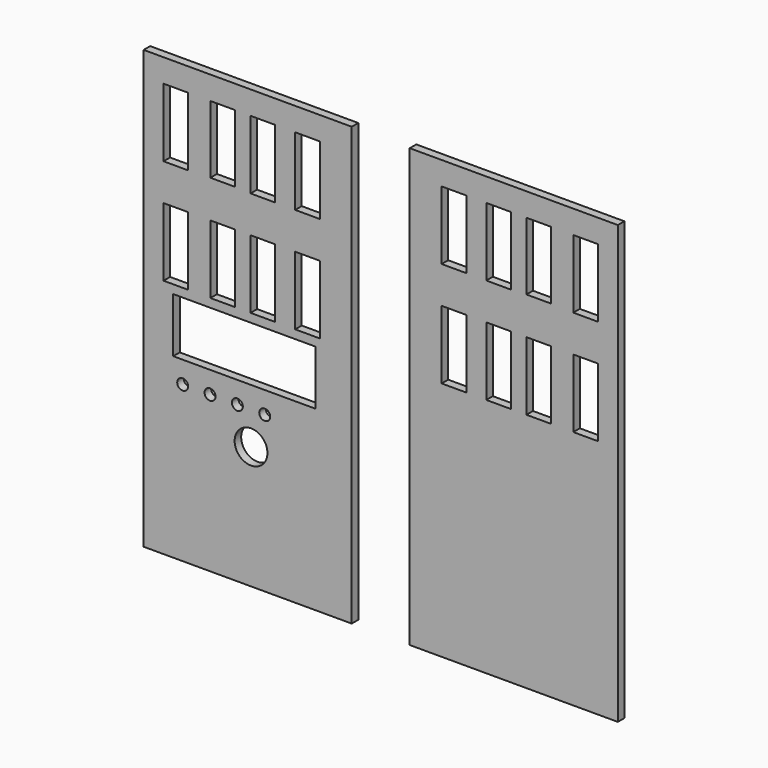
from build123d import *

# Parameters (mm, degrees)
F0_R     = 2
F0_R_2   = 6
F0_W     = 52
F0_H     = 20
F0_W_2   = 9
F0_H_2   = 25
F1_DEPTH = 3
F0_H_3   = 24.7242773399


with BuildPart() as f1:
    # F0 (on Front) → F1 (new body)
    with BuildSketch(Plane.XZ):
        with BuildLine():
            Line((-33.4349535406, -90.1943072677), (-33.4349535406, -116.7359932065))
            Line((-33.4349535406, -116.7359932065), (-20.3615333885, -116.7359932065))
            Line((-20.3615333885, -116.7359932065), (-20.3615333885, -88.7359932065))
            Line((-20.3615333885, -88.7359932065), (-15.253016612, -74.6326937222))
            ThreePointArc((-15.253016612, -74.6326937222), (-12.8761914321, -69.3241187044), (-10.7033118009, -74.7193815121))
            Line((-10.7033118009, -74.7193815121), (-5.3615333885, -88.7359932065))
            Line((-5.3615333885, -88.7359932065), (-5.3615333885, -116.7359932065))
            Line((-5.3615333885, -116.7359932065), (12.8664459437, -116.7359932065))
            Line((12.8664459437, -116.7359932065), (12.8664459437, -89.0134006739))
            Line((12.8664459437, -89.0134006739), (16.9397874707, -74.5770614979))
            ThreePointArc((16.9397874707, -74.5770614979), (19.4727024752, -69.5690042791), (22.1009911369, -74.5276728743))
            Line((22.1009911369, -74.5276728743), (27.8664459437, -89.0134006739))
            Line((27.8664459437, -89.0134006739), (27.8664459437, -116.7359932065))
            Line((27.8664459437, -116.7359932065), (42.6884633303, -116.7359932065))
            Line((42.6884633303, -116.7359932065), (42.6884633303, 43.2640067935))
            Line((42.6884633303, 43.2640067935), (-33.4349535406, 43.2640067935))
            Line((-33.4349535406, 43.2640067935), (-33.4349535406, 34.7555621043))
            Line((-33.4349535406, 34.7555621043), (-33.4349535406, -90.1943072677))
        make_face()
        with Locations((-19.1335540563, -59.8227716982)):
            Circle(F0_R, mode=Mode.SUBTRACT)
        with Locations((5.8664459437, -71.8227716982)):
            Circle(F0_R_2, mode=Mode.SUBTRACT)
        with BuildLine():
            ThreePointArc((-7.1335540563, -59.8227716982), (-9.1335540563, -61.8227716982), (-11.1335540563, -59.8227716982))
            ThreePointArc((-11.1335540563, -59.8227716982), (-9.1335540563, -57.8227716982), (-7.1335540563, -59.8227716982))
        make_face(mode=Mode.SUBTRACT)
        with Locations((0.8664459437, -59.8227716982)):
            Circle(F0_R, mode=Mode.SUBTRACT)
        with Locations((3.3922115564, -41.8520871103)):
            Rectangle(F0_W, F0_H, mode=Mode.SUBTRACT)
        with Locations((10.8664459437, -59.8227716982)):
            Circle(F0_R, mode=Mode.SUBTRACT)
        with Locations((-21.6335540563, -16.1997724324)):
            Rectangle(F0_W_2, F0_H_2, mode=Mode.SUBTRACT)
        Polygon((-9, -3.6997724324), (0, -3.6997724324), (0, -12.1065765657), (0, -28.6997724324), (-9, -28.6997724324), align=None, mode=Mode.SUBTRACT)
        with Locations((10.1928726844, -16.1997724324)):
            Rectangle(F0_W_2, F0_H_2, mode=Mode.SUBTRACT)
        with Locations((26.5141168684, -16.1997724324)):
            Rectangle(F0_W_2, F0_H_2, mode=Mode.SUBTRACT)
        with Locations((-21.6335540563, 22.2555621043)):
            Rectangle(F0_W_2, F0_H_2, mode=Mode.SUBTRACT)
        Polygon((-9, 10.0312847644), (-9, 34.7555621043), (0, 34.7555621043), (0, 22.3934234343), (0, 10.0312847644), align=None, mode=Mode.SUBTRACT)
        with Locations((10.1928726844, 22.2555621043)):
            Rectangle(F0_W_2, F0_H_2, mode=Mode.SUBTRACT)
        with Locations((26.5141168684, 22.2555621043)):
            Rectangle(F0_W_2, F0_H_2, mode=Mode.SUBTRACT)
        with BuildLine():
            Line((-20.3615333885, -88.7359932065), (-20.3615333885, -116.7359932065))
            Line((-20.3615333885, -116.7359932065), (-5.3615333885, -116.7359932065))
            Line((-5.3615333885, -116.7359932065), (-5.3615333885, -88.7359932065))
            Line((-5.3615333885, -88.7359932065), (-10.7033118009, -74.7193815121))
            ThreePointArc((-10.7033118009, -74.7193815121), (-12.8761914321, -69.3241187044), (-15.253016612, -74.6326937222))
            Line((-15.253016612, -74.6326937222), (-20.3615333885, -88.7359932065))
        make_face()
        with BuildLine():
            Line((12.8664459437, -89.0134006739), (12.8664459437, -116.7359932065))
            Line((12.8664459437, -116.7359932065), (26.4155082405, -116.7359932065))
            Line((26.4155082405, -116.7359932065), (27.8664459437, -116.7359932065))
            Line((27.8664459437, -116.7359932065), (27.8664459437, -89.0134006739))
            Line((27.8664459437, -89.0134006739), (22.1009911369, -74.5276728743))
            ThreePointArc((22.1009911369, -74.5276728743), (19.4727024752, -69.5690042791), (16.9397874707, -74.5770614979))
            Line((16.9397874707, -74.5770614979), (12.8664459437, -89.0134006739))
        make_face()
    extrude(amount=F1_DEPTH)


with BuildPart() as f1b:
    # F0 (on Front) → F1, piece 2 (new body)
    with BuildSketch(Plane.XZ):
        with BuildLine():
            Line((78.7419597656, -89.0134006739), (84.5074145724, -74.5276728743))
            ThreePointArc((84.5074145724, -74.5276728743), (87.1357032341, -69.5690042791), (89.6686182386, -74.5770614979))
            Line((89.6686182386, -74.5770614979), (93.7419597656, -89.0134006739))
            Line((93.7419597656, -89.0134006739), (93.7419597656, -116.7359932065))
            Line((93.7419597656, -116.7359932065), (111.9699390978, -116.7359932065))
            Line((111.9699390978, -116.7359932065), (111.9699390978, -88.7359932065))
            Line((111.9699390978, -88.7359932065), (117.3117175102, -74.7193815121))
            ThreePointArc((117.3117175102, -74.7193815121), (119.4845971414, -69.3241187044), (121.8614223213, -74.6326937222))
            Line((121.8614223213, -74.6326937222), (126.9699390978, -88.7359932065))
            Line((126.9699390978, -88.7359932065), (126.9699390978, -116.7359932065))
            Line((126.9699390978, -116.7359932065), (140.0433592498, -116.7359932065))
            Line((140.0433592498, -116.7359932065), (140.0433592498, -90.1943072677))
            Line((140.0433592498, -90.1943072677), (140.0433592498, 34.7555621043))
            Line((140.0433592498, 34.7555621043), (140.0433592498, 43.2640067935))
            Line((140.0433592498, 43.2640067935), (63.919942379, 43.2640067935))
            Line((63.919942379, 43.2640067935), (63.919942379, -116.7359932065))
            Line((63.919942379, -116.7359932065), (78.7419597656, -116.7359932065))
            Line((78.7419597656, -116.7359932065), (78.7419597656, -89.0134006739))
        make_face()
        with Locations((80.0942888409, -16.1997724324)):
            Rectangle(F0_W_2, F0_H_2, mode=Mode.SUBTRACT)
        with Locations((96.4155330248, -16.1997724324)):
            Rectangle(F0_W_2, F0_H_2, mode=Mode.SUBTRACT)
        with Locations((111.1084057093, -16.1997724324)):
            Rectangle(F0_W_2, F0_H_2, mode=Mode.SUBTRACT)
        with Locations((128.2419597656, -16.1997724324)):
            Rectangle(F0_W_2, F0_H_2, mode=Mode.SUBTRACT)
        with Locations((80.0942888409, 22.2555621043)):
            Rectangle(F0_W_2, F0_H_2, mode=Mode.SUBTRACT)
        with Locations((96.4155330248, 22.2555621043)):
            Rectangle(F0_W_2, F0_H_2, mode=Mode.SUBTRACT)
        with Locations((111.1084057093, 22.3934234343)):
            Rectangle(F0_W_2, F0_H_3, mode=Mode.SUBTRACT)
        with Locations((128.2419597656, 22.2555621043)):
            Rectangle(F0_W_2, F0_H_2, mode=Mode.SUBTRACT)
        with BuildLine():
            ThreePointArc((89.6686182386, -74.5770614979), (87.1357032341, -69.5690042791), (84.5074145724, -74.5276728743))
            Line((84.5074145724, -74.5276728743), (78.7419597656, -89.0134006739))
            Line((78.7419597656, -89.0134006739), (78.7419597656, -116.7359932065))
            Line((78.7419597656, -116.7359932065), (80.1928974688, -116.7359932065))
            Line((80.1928974688, -116.7359932065), (93.7419597656, -116.7359932065))
            Line((93.7419597656, -116.7359932065), (93.7419597656, -89.0134006739))
            Line((93.7419597656, -89.0134006739), (89.6686182386, -74.5770614979))
        make_face()
        with BuildLine():
            Line((111.9699390978, -88.7359932065), (111.9699390978, -116.7359932065))
            Line((111.9699390978, -116.7359932065), (126.9699390978, -116.7359932065))
            Line((126.9699390978, -116.7359932065), (126.9699390978, -88.7359932065))
            Line((126.9699390978, -88.7359932065), (121.8614223213, -74.6326937222))
            ThreePointArc((121.8614223213, -74.6326937222), (119.4845971414, -69.3241187044), (117.3117175102, -74.7193815121))
            Line((117.3117175102, -74.7193815121), (111.9699390978, -88.7359932065))
        make_face()
    extrude(amount=F1_DEPTH)


solid = Compound([f1.part, f1b.part])
